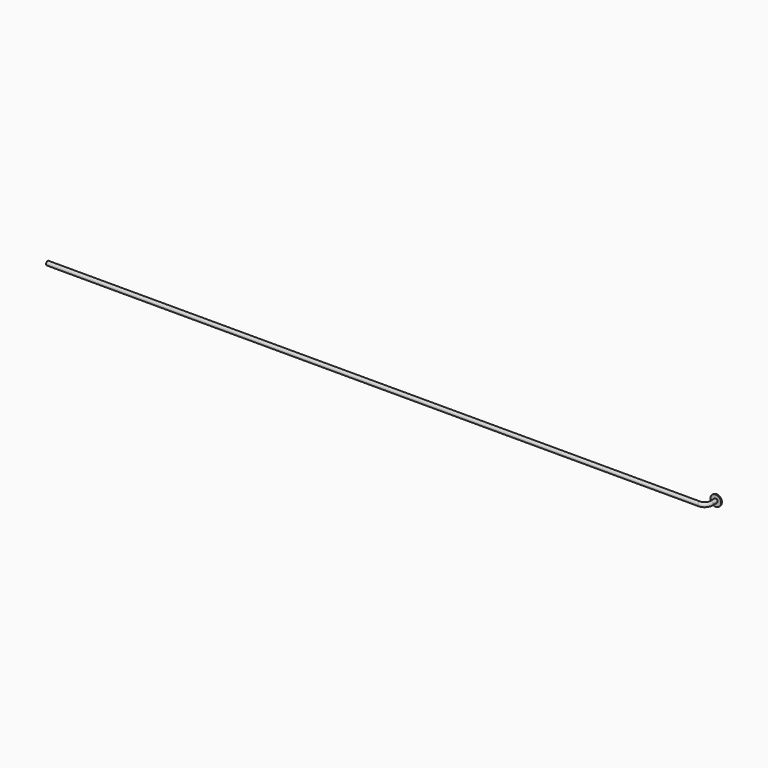
from build123d import *

# Parameters (mm, degrees)
F2_R     = 30
F2_R_2   = 82.5
F4_DEPTH = 15


with BuildPart() as f3:
    # F3: sweep along a path in F0
    with BuildLine(Plane.XY) as f3_path:
        Line((0, 200), (0, 100))
        ThreePointArc((0, 100), (-29.2893218813, 29.2893218813), (-100, 0))
        Line((-100, 0), (-10000, 0))
    # F2 (on offset) → F3 (sweep)
    with BuildSketch(Plane.XZ.offset(-200)):
        Circle(F2_R)
    sweep(path=f3_path.line)

    # F2 (on offset) → F4 (join)
    with BuildSketch(Plane.XZ.offset(-200)):
        Circle(F2_R_2)
        Circle(F2_R, mode=Mode.SUBTRACT)
    extrude(amount=F4_DEPTH)


solid = f3.part
